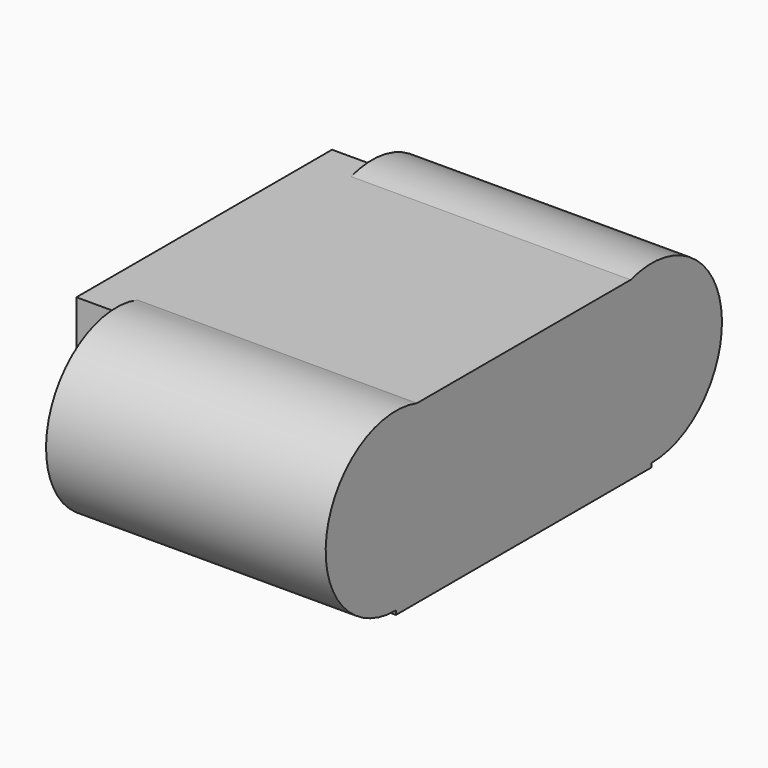
from build123d import *

# Parameters (mm, degrees)
CYLINDER_R              = 2.2
CYLINDER_DEPTH          = 7
CYLINDER_PITCH_ANGLE    = 90
BOX_W                   = 8
BOX_H                   = 8
BOX_DEPTH               = 4.4
CYLINDER001_R           = 2.2
CYLINDER001_DEPTH       = 7
CYLINDER001_PITCH_ANGLE = 90


with BuildPart() as obj1:
    # Cylinder → Cylinder (new body)
    with BuildSketch(Plane.XY):
        Circle(CYLINDER_R)
    extrude(amount=CYLINDER_DEPTH)


with BuildPart() as obj1_1:
    # Cylinder pitch: moved
    add(obj1.part.rotate(Axis((0, 0, 0), (0, 1, 0)), CYLINDER_PITCH_ANGLE))


with BuildPart() as obj1_2:
    # Cylinder placement: moved
    add(obj1_1.part.moved(Location((-6, 25, -41))))


with BuildPart() as krychle:
    # Box → Box (new body)
    with BuildSketch(Plane(origin=(-7, 17, -43.3), x_dir=(1, 0, 0), z_dir=(0, 0, 1))):
        with Locations((4, 4)):
            Rectangle(BOX_W, BOX_H)
    extrude(amount=BOX_DEPTH)


with BuildPart() as fusion001003:
    # Cylinder001 → Cylinder001 (new body)
    with BuildSketch(Plane.XY):
        Circle(CYLINDER001_R)
    extrude(amount=CYLINDER001_DEPTH)


with BuildPart() as fusion001003_1:
    # Cylinder001 pitch: moved
    add(fusion001003.part.rotate(Axis((0, 0, 0), (0, 1, 0)), CYLINDER001_PITCH_ANGLE))


with BuildPart() as fusion001003_2:
    # Cylinder001 placement: moved
    add(fusion001003_1.part.moved(Location((-6, 17, -41))))

    # Fusion001003: union obj1, Krychle
    add(obj1_2.part)
    add(krychle.part)


solid = fusion001003_2.part
